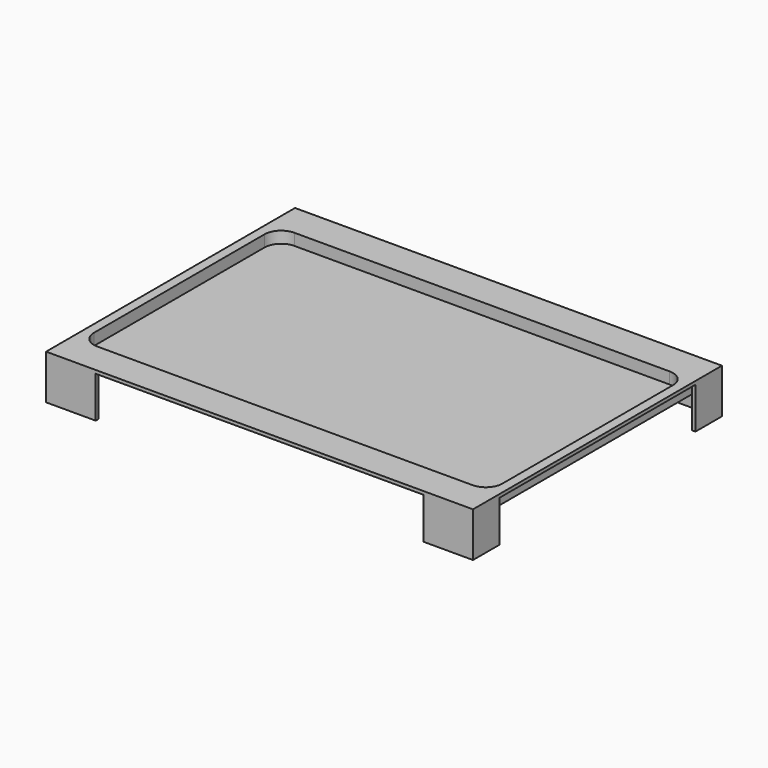
from build123d import *

# Parameters (mm, degrees)
F1_DEPTH = 27
F0_W     = 251
F0_H     = 153
F2_DEPTH = 2
F0_W_2   = 198.2
F0_H_2   = 2
F0_W_3   = 2
F0_H_3   = 148.2
F3_DEPTH = 2
F4_DEPTH = 9
F5_DEPTH = 7


with BuildPart() as f1:
    # F0 (on Top) → F1 (new body)
    with BuildSketch(Plane.XY):
        Polygon((99.1, 94.5), (99.1, 92.5), (127.1, 92.5), (127.1, 74.5), (129.1, 74.5), (129.1, 94.5), align=None)
        Polygon((129.1, -73.7), (127.1, -73.673005), (127.1, -91.7), (99.1, -91.7), (99.1, -93.7), (129.1, -93.7), align=None)
        Polygon((-127.1, -91.7), (-127.1, -73.7), (-129.1, -73.7), (-129.1, -93.7), (-99.1, -93.7), (-99.1, -91.7), align=None)
        Polygon((-127.1, 74.5), (-127.1, 92.5), (-99.1, 92.5), (-99.1, 94.5), (-129.1, 94.5), (-129.1, 74.5), align=None)
    extrude(amount=-F1_DEPTH)

    # F0 (on Top) → F2 (join)
    with BuildSketch(Plane.XY):
        Polygon((-99.1, 92.5), (-127.1, 92.5), (-127.1, 74.5), (-127.1, -73.7), (-127.1, -91.7), (-99.1, -91.7), (99.1, -91.7), (127.1, -91.7), (127.1, -73.673005), (127.1, 74.5), (127.1, 92.5), (99.1, 92.5), align=None)
        Rectangle(F0_W, F0_H, mode=Mode.SUBTRACT)
        Rectangle(F0_W, F0_H)
        with BuildLine():
            ThreePointArc((-123.5, 64.5), (-120.571068, 71.571068), (-113.5, 74.5))
            Line((-113.5, 74.5), (113.5, 74.5))
            ThreePointArc((113.5, 74.5), (120.571068, 71.571068), (123.5, 64.5))
            Line((123.5, 64.5), (123.5, -64.5))
            ThreePointArc((123.5, -64.5), (120.571068, -71.571068), (113.5, -74.5))
            Line((113.5, -74.5), (-113.5, -74.5))
            ThreePointArc((-113.5, -74.5), (-120.571068, -71.571068), (-123.5, -64.5))
            Line((-123.5, -64.5), (-123.5, 64.5))
        make_face(mode=Mode.SUBTRACT)
    extrude(amount=-F2_DEPTH)

    # F0 (on Top) → F3 (join)
    with BuildSketch(Plane.XY):
        with Locations((0, -92.7)):
            Rectangle(F0_W_2, F0_H_2)
        with Locations((0, 93.5)):
            Rectangle(F0_W_2, F0_H_2)
        with Locations((-128.1, 0.4)):
            Rectangle(F0_W_3, F0_H_3)
        Polygon((129.1, 74.5), (127.1, 74.5), (127.1, -73.673005), (129.1, -73.7), align=None)
    extrude(amount=-F3_DEPTH)

    # F0 (on Top) → F4 (join)
    with BuildSketch(Plane.XY):
        Rectangle(F0_W, F0_H)
        with BuildLine():
            ThreePointArc((-123.5, 64.5), (-120.571068, 71.571068), (-113.5, 74.5))
            Line((-113.5, 74.5), (113.5, 74.5))
            ThreePointArc((113.5, 74.5), (120.571068, 71.571068), (123.5, 64.5))
            Line((123.5, 64.5), (123.5, -64.5))
            ThreePointArc((123.5, -64.5), (120.571068, -71.571068), (113.5, -74.5))
            Line((113.5, -74.5), (-113.5, -74.5))
            ThreePointArc((-113.5, -74.5), (-120.571068, -71.571068), (-123.5, -64.5))
            Line((-123.5, -64.5), (-123.5, 64.5))
        make_face(mode=Mode.SUBTRACT)
        with BuildLine():
            Line((113.5, 74.5), (-113.5, 74.5))
            ThreePointArc((-113.5, 74.5), (-120.571068, 71.571068), (-123.5, 64.5))
            Line((-123.5, 64.5), (-123.5, -64.5))
            ThreePointArc((-123.5, -64.5), (-120.571068, -71.571068), (-113.5, -74.5))
            Line((-113.5, -74.5), (113.5, -74.5))
            ThreePointArc((113.5, -74.5), (120.571068, -71.571068), (123.5, -64.5))
            Line((123.5, -64.5), (123.5, 64.5))
            ThreePointArc((123.5, 64.5), (120.571068, 71.571068), (113.5, 74.5))
        make_face()
    extrude(amount=-F4_DEPTH)

    # F0 (on Top) → F5 (cut)
    with BuildSketch(Plane.XY):
        with BuildLine():
            Line((113.5, 74.5), (-113.5, 74.5))
            ThreePointArc((-113.5, 74.5), (-120.571068, 71.571068), (-123.5, 64.5))
            Line((-123.5, 64.5), (-123.5, -64.5))
            ThreePointArc((-123.5, -64.5), (-120.571068, -71.571068), (-113.5, -74.5))
            Line((-113.5, -74.5), (113.5, -74.5))
            ThreePointArc((113.5, -74.5), (120.571068, -71.571068), (123.5, -64.5))
            Line((123.5, -64.5), (123.5, 64.5))
            ThreePointArc((123.5, 64.5), (120.571068, 71.571068), (113.5, 74.5))
        make_face()
    extrude(amount=-F5_DEPTH, mode=Mode.SUBTRACT)


solid = f1.part
